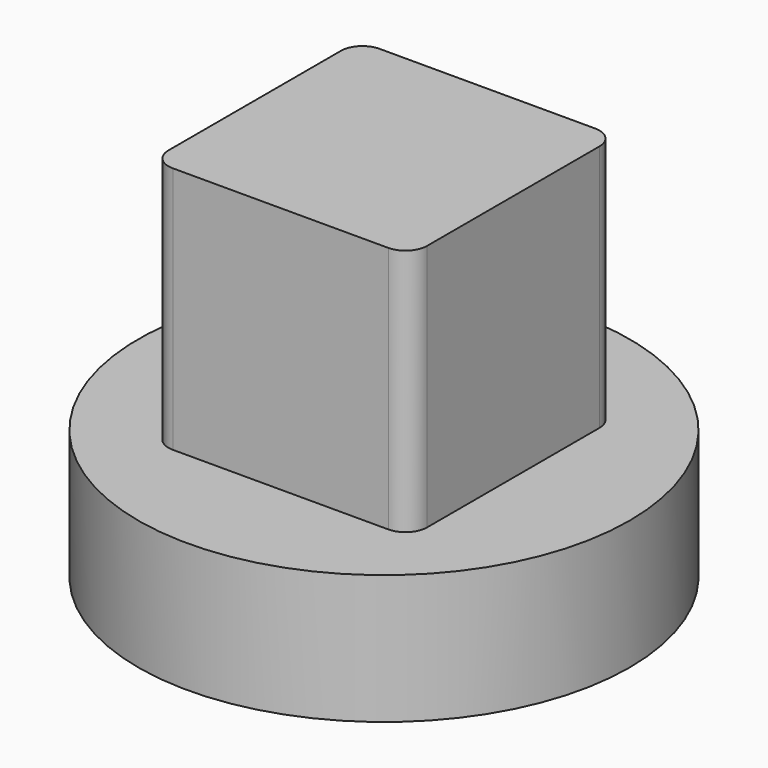
from build123d import *

# Parameters (mm, degrees)
F0_R     = 72.39
F1_DEPTH = 38.1
F2_W     = 76.2
F2_H     = 76.2
F3_DEPTH = 73.025
F4_R     = 6.35
F5_R     = 1.7272
F6_DEPTH = 6.35
F7_R     = 34.29
F8_DEPTH = 25.4


with BuildPart() as f1:
    # F0 (on Top) → F1 (new body)
    with BuildSketch(Plane.XY):
        Circle(F0_R)
    extrude(amount=F1_DEPTH)

    # F2 (on face) → F3 (join)
    with BuildSketch(Plane.XY.offset(38.1)):
        Rectangle(F2_W, F2_H)
    extrude(amount=F3_DEPTH)

    # F4
    f4_edges = [f1.edges().sort_by_distance(p)[0] for p in [
        (-38.1, -38.1, 74.6125),
        (-38.1, 38.1, 74.6125),
        (38.1, -38.1, 74.6125),
        (38.1, 38.1, 74.6125),
    ]]
    fillet(f4_edges, radius=F4_R)

    # F5 (on face) → F6 (cut)
    with BuildSketch(Plane(origin=(0, 0, 0), x_dir=(1, 0, 0), z_dir=(0, 0, -1))):
        with Locations((-48.38113, 48.38113)):
            Circle(F5_R)
        with Locations((-48.38113, -48.38113)):
            Circle(F5_R)
        with Locations((48.38113, -48.38113)):
            Circle(F5_R)
        with Locations((48.38113, 48.38113)):
            Circle(F5_R)
    extrude(amount=-F6_DEPTH, mode=Mode.SUBTRACT)

    # F7 (on face) → F8 (cut)
    with BuildSketch(Plane(origin=(0, 0, 0), x_dir=(1, 0, 0), z_dir=(0, 0, -1))):
        Circle(F7_R)
    extrude(amount=-F8_DEPTH, mode=Mode.SUBTRACT)


solid = f1.part
